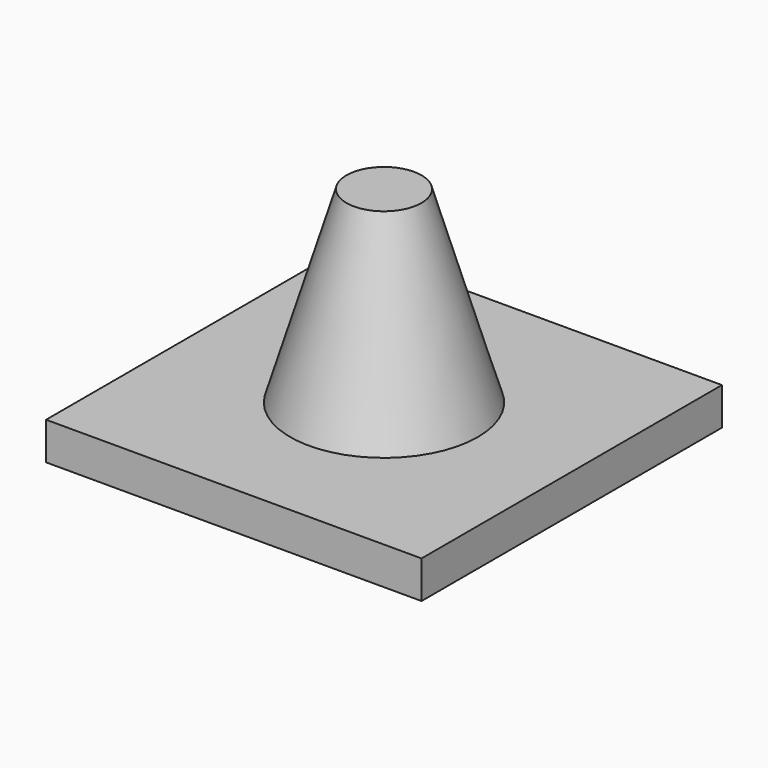
from build123d import *

# Parameters (mm, degrees)
SKETCH_W  = 100
SKETCH_H  = 100
PAD_DEPTH = 10


with BuildPart() as part:
    # Sketch → Pad (new body)
    with BuildSketch(Plane.XY):
        Rectangle(SKETCH_W, SKETCH_H)
    extrude(amount=PAD_DEPTH)

    # Cone → Cone (revolve)
    with BuildSketch(Plane(origin=(0, 0, 10), x_dir=(1, 0, 0), z_dir=(0, -1, 0))):
        Polygon((0, 0), (25, 0), (10, 50), (0, 50), align=None)
    revolve(axis=Axis((0, 0, 10), (0, 0, 1)))


solid = part.part
